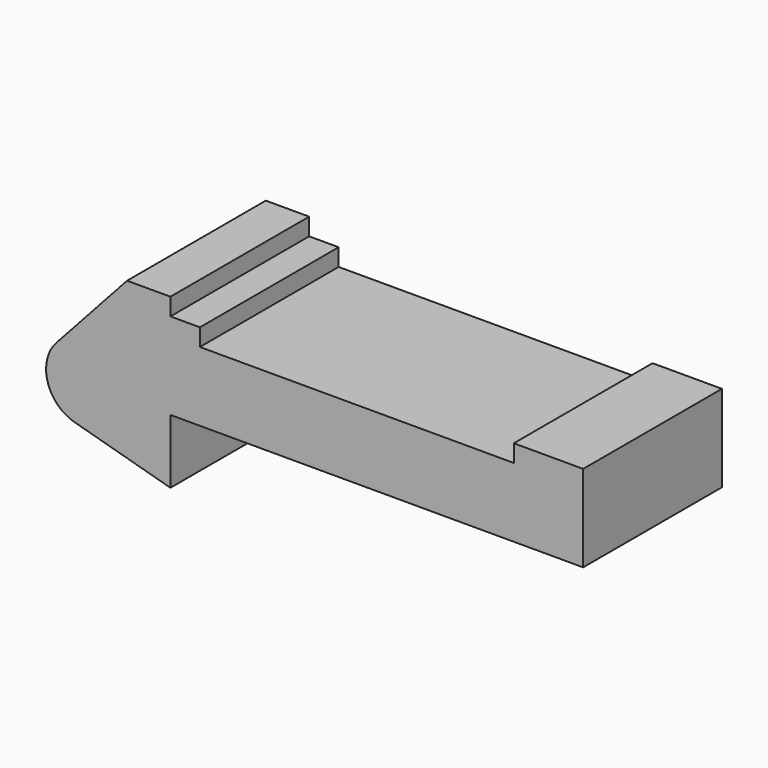
from build123d import *

# Parameters (mm, degrees)
F0_R     = 3.175
F0_W     = 5.842
F0_H     = 12.7
F1_DEPTH = 25.4


with BuildPart() as f1:
    # F0 (on Front) → F1 (new body)
    with BuildSketch(Plane.XZ):
        Polygon((5.842, 12.7), (5.842, 0), (66.294, 0), (66.294, 12.7), (56.134, 12.7), (56.134, 10.16), (10.16, 10.16), (10.16, 12.7), align=None)
        with BuildLine():
            ThreePointArc((-8.1826630726, -5.5069827884), (-3.1957909266, -4.5493385486), (-0.9398, 0))
            ThreePointArc((-0.9398, 0), (-4.5919612295, 5.3297205562), (-10.8806298187, 3.8475430269))
            ThreePointArc((-10.8806298187, 3.8475430269), (-12.1459778134, -1.5837270034), (-8.1826630726, -5.5069827884))
        make_face()
        with Locations((-6.6548, 0)):
            Circle(F0_R, mode=Mode.SUBTRACT)
        with BuildLine():
            Line((-0.9398, 0), (0, 0))
            Line((0, 0), (0, 12.7))
            Line((0, 12.7), (5.842, 12.7))
            Line((5.842, 12.7), (5.842, 15.24))
            Line((5.842, 15.24), (-0.508, 15.24))
            Line((-0.508, 15.24), (-10.8806298187, 3.8475430269))
            ThreePointArc((-10.8806298187, 3.8475430269), (-4.5919612295, 5.3297205562), (-0.9398, 0))
        make_face()
        with Locations((2.921, 6.35)):
            Rectangle(F0_W, F0_H)
        with BuildLine():
            Line((5.842, 0), (0, 0))
            Line((0, 0), (-0.9398, 0))
            ThreePointArc((-0.9398, 0), (-3.1957909266, -4.5493385486), (-8.1826630726, -5.5069827884))
            Line((-8.1826630726, -5.5069827884), (5.842, -9.398))
            Line((5.842, -9.398), (5.842, 0))
        make_face()
        with Locations((-6.6548, 0)):
            Circle(F0_R)
    extrude(amount=F1_DEPTH)


solid = f1.part
